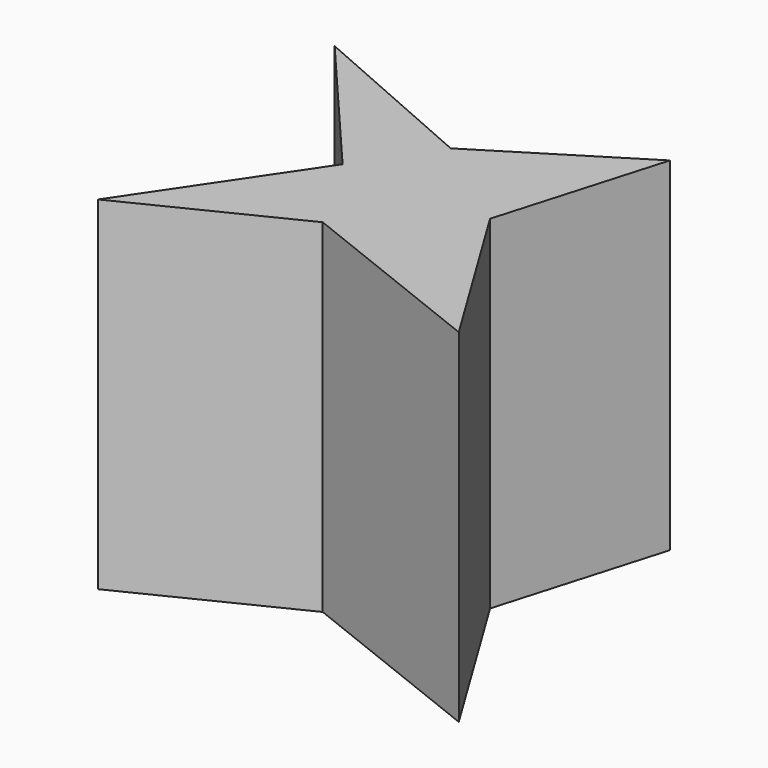
from build123d import *

# Parameters (mm, degrees)
F1_DEPTH = 50


with BuildPart() as f1:
    # F0 (on Top) → F1 (new body, symmetric)
    with BuildSketch(Plane.XY):
        Polygon((42.672001, 48.006002), (0, 21.4884), (-52.120801, 44.3484), (-14.325601, 0), (-46.939202, -48.310801), (0, -25.146002), (58.021853, -48.112985), (28.651198, 0), align=None)
    extrude(amount=F1_DEPTH, both=True)


solid = f1.part
